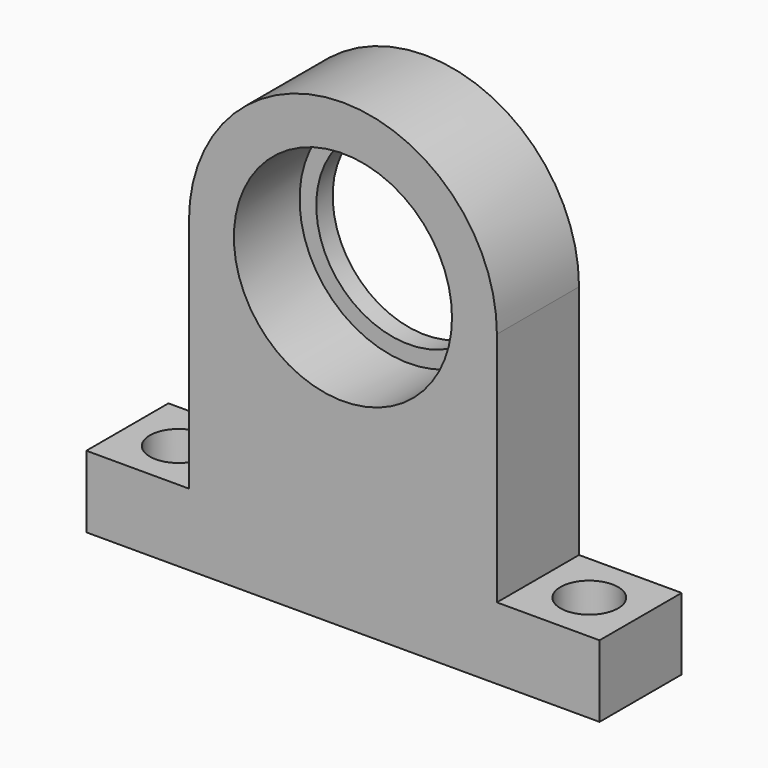
from build123d import *

# Parameters (mm, degrees)
F0_W          = 63.5
F0_H          = 38.1
F1_DEPTH      = 6.35
F2_W          = 12.7
F2_H          = 29.21
F3_DEPTH      = 12.701
F5_DEPTH      = 6.35
F5_DEPTH_BACK = 6.35
F6_R          = 13.49375
F7_DEPTH      = 10.16
F8_R          = 11.43
F9_DEPTH      = 25.4
F11_D         = 7.1374


with BuildPart() as f1:
    # F0 (on Front) → F1 (new body, symmetric)
    with BuildSketch(Plane.XZ):
        Rectangle(F0_W, F0_H)
    extrude(amount=F1_DEPTH, both=True)

    # F2 (on face) → F3 (cut, through all)
    with BuildSketch(Plane.XZ.offset(6.35)):
        with Locations((-25.4, 4.445)):
            Rectangle(F2_W, F2_H)
        with Locations((25.4, 4.445)):
            Rectangle(F2_W, F2_H)
    extrude(amount=-F3_DEPTH, mode=Mode.SUBTRACT)

    # F4 (on Front) → F5 (join, two sides)
    with BuildSketch(Plane.XZ) as f5_sk:
        with BuildLine():
            Line((-19.05, 19.05), (19.05, 19.05))
            ThreePointArc((19.05, 19.05), (0, 38.1), (-19.05, 19.05))
        make_face()
    extrude(amount=F5_DEPTH)
    extrude(f5_sk.sketch, amount=-F5_DEPTH_BACK)

    # F6 (on face) → F7 (cut)
    with BuildSketch(Plane.XZ.offset(6.35)):
        with Locations((0, 19.05)):
            Circle(F6_R)
    extrude(amount=-F7_DEPTH, mode=Mode.SUBTRACT)

    # F8 (on face) → F9 (cut)
    with BuildSketch(Plane.XZ.offset(-3.81)):
        with Locations((0, 19.05)):
            Circle(F8_R)
    extrude(amount=-F9_DEPTH, mode=Mode.SUBTRACT)

    # F11 (through all)
    with Locations(Plane.XY.offset(-10.16)):
        with Locations((-25.4, 0), (25.4, 0)):
            Hole(F11_D / 2)


solid = f1.part
